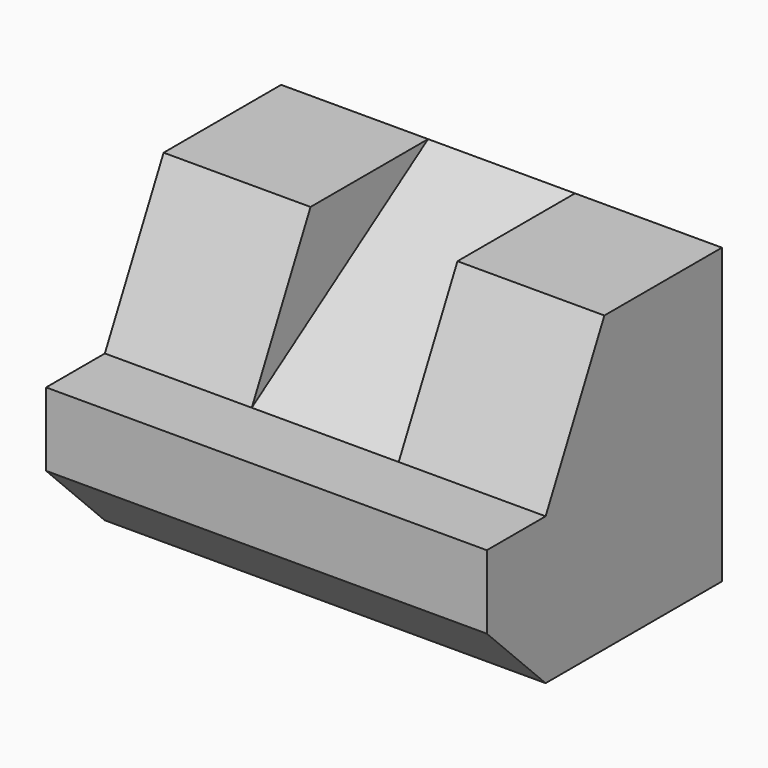
from build123d import *

# Parameters (mm, degrees)
F1_DEPTH = 30
F3_W     = 10
F3_H     = 18.0277563773
F4_DEPTH = 11.0950039245


with BuildPart() as f1:
    # F0 (on Right) → F1 (new body)
    with BuildSketch(Plane.YZ):
        Polygon((-5, 5), (0, 0), (15, 0), (15, 20), (5, 20), (0, 10), (-5, 10), align=None)
    extrude(amount=F1_DEPTH)

    # F3 (on 3pt) → F4 (cut, through all)
    with BuildSketch(Plane(origin=(0, -4.6153846154, 6.9230769231), x_dir=(1, 0, 0), z_dir=(0, -0.5547001962, 0.8320502943))):
        with Locations((15, 14.5608801509)):
            Rectangle(F3_W, F3_H)
    extrude(amount=F4_DEPTH, mode=Mode.SUBTRACT)


solid = f1.part
